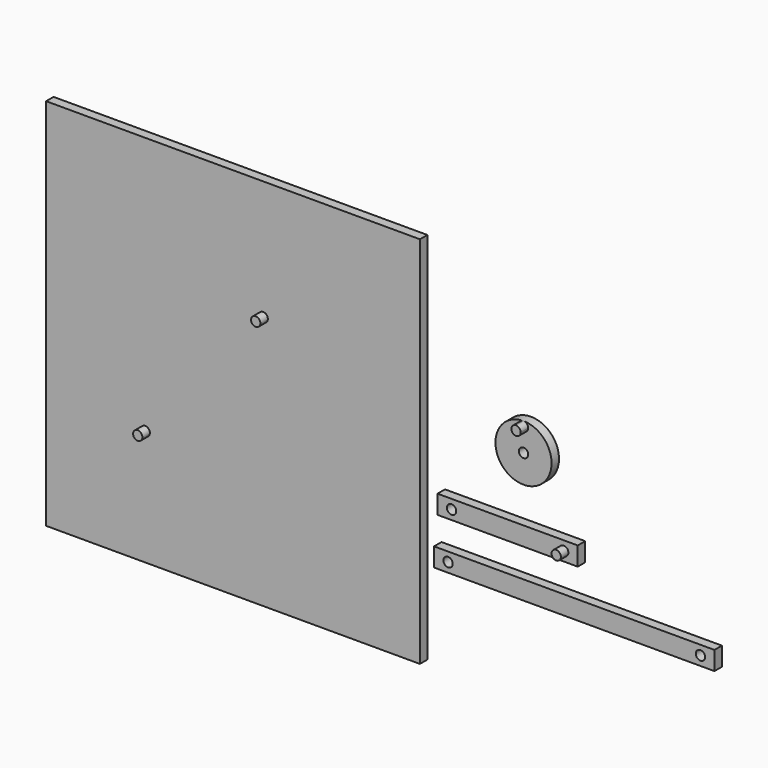
from build123d import *

# Parameters (mm, degrees)
F0_R     = 2.5
F2_DEPTH = 5
F0_W     = 75
F0_H     = 10
F0_W_2   = 150
F1_W     = 200
F1_H     = 200
F1_R     = 2.5
F3_DEPTH = 5
F4_DEPTH = 10
F5_DEPTH = 10
F6_DEPTH = 10
F7_DEPTH = 10


with BuildPart() as f2:
    # F0 (on Front) → F2 (new body)
    with BuildSketch(Plane.XZ):
        with BuildLine():
            ThreePointArc((0, 15), (-10.6066017178, -10.6066017178), (15, 0))
            ThreePointArc((15, 0), (10.6066017178, 10.6066017178), (0, 15))
        make_face()
        Circle(F0_R, mode=Mode.SUBTRACT)
        with BuildLine():
            ThreePointArc((2.5, 12.5), (-1.767766953, 10.732233047), (0, 15))
            ThreePointArc((0, 15), (1.767766953, 14.267766953), (2.5, 12.5))
        make_face(mode=Mode.SUBTRACT)
        with BuildLine():
            ThreePointArc((2.5, 12.5), (1.767766953, 14.267766953), (0, 15))
            ThreePointArc((0, 15), (-1.767766953, 10.732233047), (2.5, 12.5))
        make_face()
    extrude(amount=F2_DEPTH)

    # F0 (on Front) → F5 (join)
    with BuildSketch(Plane.XZ):
        with BuildLine():
            ThreePointArc((2.5, 12.5), (1.767766953, 14.267766953), (0, 15))
            ThreePointArc((0, 15), (-1.767766953, 10.732233047), (2.5, 12.5))
        make_face()
    extrude(amount=F5_DEPTH)


with BuildPart() as f2b:
    # F0 (on Front) → F2, piece 2 (new body)
    with BuildSketch(Plane.XZ):
        with Locations((-8.4902770817, -39.1776886582)):
            Rectangle(F0_W, F0_H)
        with Locations((-38.4902770817, -39.1776886582)):
            Circle(F0_R, mode=Mode.SUBTRACT)
        with Locations((21.5097229183, -39.1776886582)):
            Circle(F0_R, mode=Mode.SUBTRACT)
    extrude(amount=F2_DEPTH)

    # F0 (on Front) → F6 (join)
    with BuildSketch(Plane.XZ):
        with Locations((21.5097229183, -39.1776886582)):
            Circle(F0_R)
    extrude(amount=F6_DEPTH)


with BuildPart() as f2c:
    # F0 (on Front) → F2, piece 3 (new body)
    with BuildSketch(Plane.XZ):
        with Locations((27.1506987512, -64.5932731032)):
            Rectangle(F0_W_2, F0_H)
        with Locations((-40.3493012488, -64.5932731032)):
            Circle(F0_R, mode=Mode.SUBTRACT)
        with Locations((94.6506987512, -64.5932731032)):
            Circle(F0_R, mode=Mode.SUBTRACT)
    extrude(amount=F2_DEPTH)


with BuildPart() as f3:
    # F1 (on Front) → F3 (new body)
    with BuildSketch(Plane.XZ):
        with Locations((-155.4097570479, -17.4372267429)):
            Rectangle(F1_W, F1_H)
        with Locations((-202.3687064648, -55.6124635041)):
            Circle(F1_R, mode=Mode.SUBTRACT)
        with Locations((-139.2716020346, 18.5805745423)):
            Circle(F1_R, mode=Mode.SUBTRACT)
    extrude(amount=F3_DEPTH)

    # F1 (on Front) → F4 (join)
    with BuildSketch(Plane.XZ):
        with Locations((-202.3687064648, -55.6124635041)):
            Circle(F1_R)
    extrude(amount=F4_DEPTH)

    # F1 (on Front) → F7 (join)
    with BuildSketch(Plane.XZ):
        with Locations((-139.2716020346, 18.5805745423)):
            Circle(F1_R)
    extrude(amount=F7_DEPTH)


solid = Compound([f2.part, f2b.part, f2c.part, f3.part])
